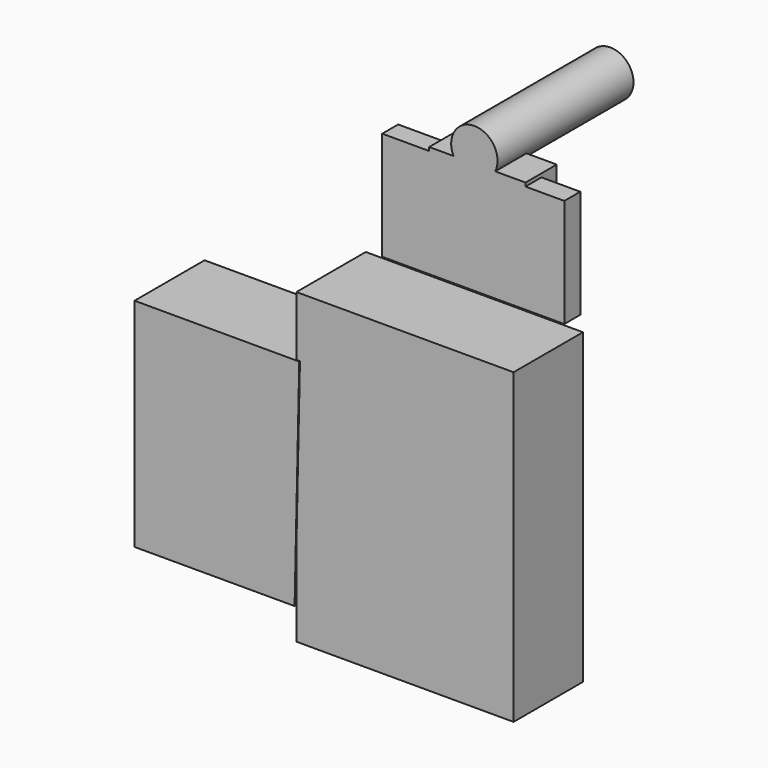
from build123d import *

# Parameters (mm, degrees)
F0_W      = 63.614506
F0_H      = 90.175208
F1_DEPTH  = 25.4
F2_T      = -2.54
F4_DEPTH  = 25.654
F5_W      = 53.34
F5_H      = 31.75
F6_DEPTH  = 5.842
F8_DEPTH  = 11.43
F9_R      = 6.78763
F10_DEPTH = 49.784


with BuildPart() as f1:
    # F0 (on Front) → F1 (new body)
    with BuildSketch(Plane.XZ):
        with Locations((-2e-06, -4.590737)):
            Rectangle(F0_W, F0_H)
    extrude(amount=F1_DEPTH)

    # F2
    f2_openings = [f1.faces().sort_by_distance(p)[0] for p in [
        (-2e-06, 0, -4.590737),
    ]]
    offset(amount=F2_T, openings=f2_openings)

    # F3 (on Front) → F4 (join)
    with BuildSketch(Plane.XZ):
        Polygon((-32.135166, -40.496867), (-30.766274, 23.003133), (-79.026274, 23.003133), (-79.026274, -40.496867), align=None)
    extrude(amount=F4_DEPTH)


with BuildPart() as f6:
    # F5 (on Front) → F6 (new body)
    with BuildSketch(Plane.XZ):
        with Locations((-0.320101, 56.699775)):
            Rectangle(F5_W, F5_H)
    extrude(amount=-F6_DEPTH)

    # F7 (on Front) → F8 (join)
    with BuildSketch(Plane.XZ):
        Polygon((-13.545804, 61.811004), (14.982359, 61.811004), (14.982359, 73.61576), (-13.217889, 73.61576), align=None)
    extrude(amount=-F8_DEPTH)

    # F9 (on Front) → F10 (join)
    with BuildSketch(Plane.XZ):
        with Locations((0, 76.566949)):
            Circle(F9_R)
    extrude(amount=-F10_DEPTH)


solid = Compound([f1.part, f6.part])
